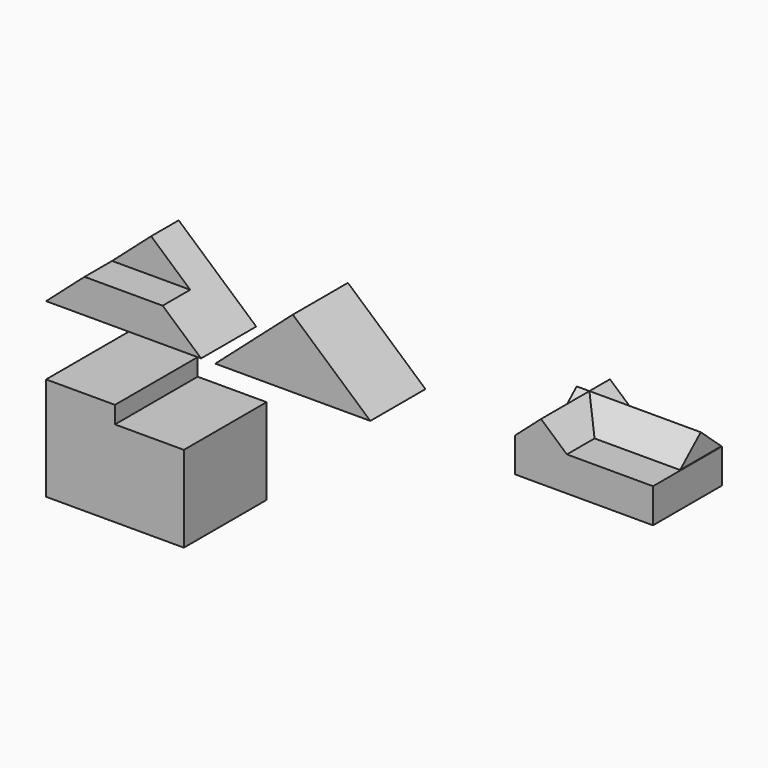
from build123d import *

# Parameters (mm, degrees)
F1_DEPTH  = 101.6
F3_DEPTH  = 50.8
F4_DEPTH  = 50.8
F6_DEPTH  = 101.6
F9_DEPTH  = 279.4
F11_DEPTH = 127
F12_W     = 127
F12_H     = 50.8
F13_DEPTH = 127
F14_W     = 76.2
F14_H     = 50.8
F15_DEPTH = 182.88
F17_DEPTH = 152.4


with BuildPart() as f1:
    # F0 (on Front) → F1 (new body)
    with BuildSketch(Plane.XZ):
        Polygon((114.3, 100.8031249516), (0, 0), (228.6, 0), align=None)
    extrude(amount=-F1_DEPTH)

    # F2 (on face) → F3 (join)
    with BuildSketch(Plane.XZ):
        Polygon((114.3, 100.8031249516), (56.6982143134, 50.0031249516), (171.9017856866, 50.0031249516), align=None)
    extrude(amount=-F3_DEPTH)

    # F2 (on face) → F4 (cut)
    with BuildSketch(Plane.XZ):
        Polygon((114.3, 100.8031249516), (56.6982143134, 50.0031249516), (171.9017856866, 50.0031249516), align=None)
    extrude(amount=-F4_DEPTH, mode=Mode.SUBTRACT)

    # F8 (on offset) → F9 (cut)
    with BuildSketch(Plane.YZ.offset(894.08)):
        Polygon((0, 24.6031249516), (50.8, 100.8031249516), (0, 100.8031249516), align=None)
    extrude(amount=-F9_DEPTH, mode=Mode.SUBTRACT)


with BuildPart() as f6:
    # F5 (on Front) → F6 (new body)
    with BuildSketch(Plane.XZ):
        Polygon((420.9883213043, 50.4015624758), (363.8383213043, 100.8031249516), (306.6883213043, 50.4015624758), align=None)
        Polygon((420.9883213043, 50.4015624758), (306.6883213043, 50.4015624758), (249.5383213043, 0), (478.1383213043, 0), align=None)
    extrude(amount=-F6_DEPTH)


with BuildPart() as f11:
    # F10 (on Front) → F11 (new body)
    with BuildSketch(Plane.XZ):
        Polygon((729.9206214905, 84.4010416505), (691.8206214905, 50.8), (691.8206214905, 0), (768.0206214905, 0), (768.0206214905, 50.8), align=None)
    extrude(amount=-F11_DEPTH)

    # F12 (on Front) → F13 (join)
    with BuildSketch(Plane.XZ):
        with Locations((831.5206214905, 25.4)):
            Rectangle(F12_W, F12_H)
    extrude(amount=-F13_DEPTH)

    # F14 (on offset) → F15 (join)
    with BuildSketch(Plane.YZ.offset(894.08)):
        Polygon((127.2188145703, 50.8), (89.1188145703, 84.4010416505), (51.0188145703, 50.8), align=None)
        with Locations((89.1188145703, 25.4)):
            Rectangle(F14_W, F14_H)
    extrude(amount=-F15_DEPTH)


with BuildPart() as f17:
    # F16 (on Front) → F17 (new body)
    with BuildSketch(Plane.XZ):
        Polygon((101.6, -101.6), (0, -101.6), (0, -254), (203.2, -254), (203.2, -127), (101.6, -127), align=None)
    extrude(amount=-F17_DEPTH)


solid = Compound([f1.part, f6.part, f11.part, f17.part])
